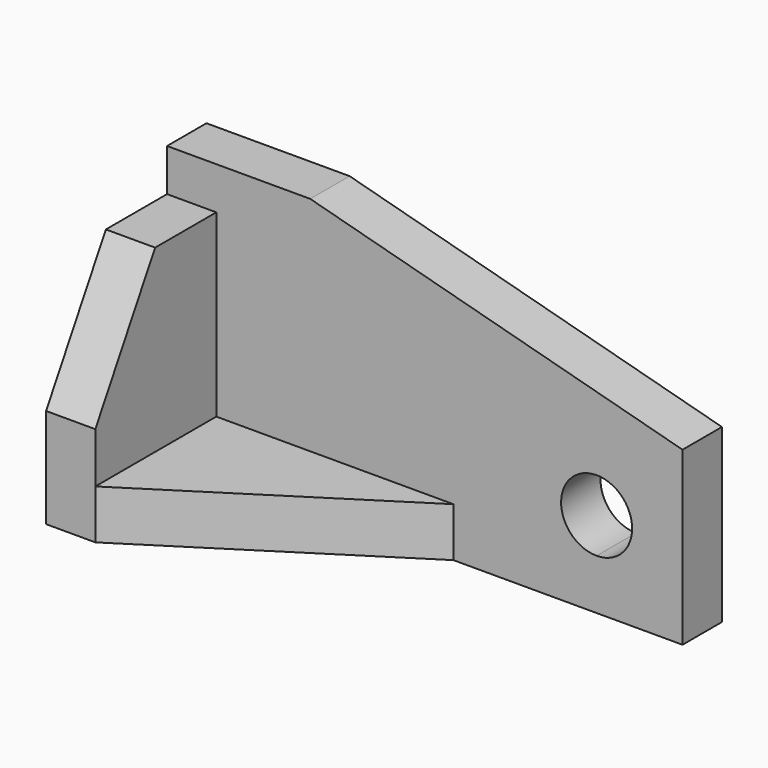
from build123d import *

# Parameters (mm, degrees)
F1_DEPTH  = 10.922
F2_W      = 10.922
F2_H      = 50.8
F3_DEPTH  = 33.528
F5_DEPTH  = 10.922
F6_W      = 52.578
F6_H      = 10.922
F7_DEPTH  = 33.528
F9_DEPTH  = 10.922
F11_DEPTH = 10.922


with BuildPart() as f1:
    # F0 (on Front) → F1 (new body)
    with BuildSketch(Plane.XZ):
        Polygon((-59.779957, 60.198), (-59.779957, 0), (54.520043, 0), (54.520043, 38.078794), (-28.029957, 60.198), align=None)
    extrude(amount=F1_DEPTH)

    # F2 (on face) → F3 (join)
    with BuildSketch(Plane.XZ.offset(10.922)):
        with Locations((-54.318957, 25.4)):
            Rectangle(F2_W, F2_H)
    extrude(amount=F3_DEPTH)

    # F4 (on face) → F5 (cut)
    with BuildSketch(Plane(origin=(-59.779957, 0, 0), x_dir=(0, -1, 0), z_dir=(-1, 0, 0))):
        Polygon((27.878893, 50.8), (44.45, 22.098), (44.45, 50.8), align=None)
    extrude(amount=-F5_DEPTH, mode=Mode.SUBTRACT)

    # F6 (on face) → F7 (join)
    with BuildSketch(Plane.XZ.offset(10.922)):
        with Locations((-22.568957, 5.461)):
            Rectangle(F6_W, F6_H)
    extrude(amount=F7_DEPTH)

    # F8 (on face) → F9 (cut)
    with BuildSketch(Plane.XY.offset(10.922)):
        Polygon((3.720043, -10.922), (-48.857957, -44.45), (3.720043, -44.45), align=None)
    extrude(amount=-F9_DEPTH, mode=Mode.SUBTRACT)

    # F10 (on face) → F11 (cut)
    with BuildSketch(Plane.XZ.offset(10.922)):
        with BuildLine():
            ThreePointArc((35.470043, 11.176), (41.037802, 13.482241), (43.344043, 19.05))
            ThreePointArc((43.344043, 19.05), (29.902284, 24.617759), (35.470043, 11.176))
        make_face()
    extrude(amount=-F11_DEPTH, mode=Mode.SUBTRACT)


solid = f1.part
